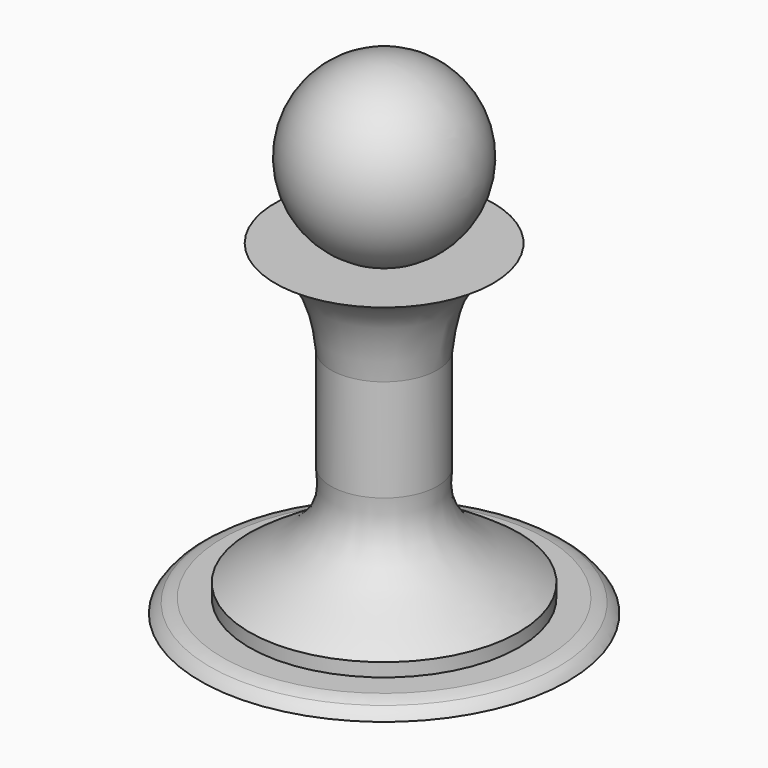
from build123d import *


with BuildPart() as f1:
    # F0 (on Front) → F1 (revolve)
    with BuildSketch(Plane.XZ):
        with BuildLine():
            Line((0, 37.7016658888), (0, 24.9600920844))
            Line((0, 24.9600920844), (0, 0))
            Line((0, 0), (0, -15))
            Line((0, -15), (0, -33.9457252348))
            Line((0, -33.9457252348), (26.9568994511, -33.9457252348))
            add(Edge.make_bspline(
                [(25.5533556485, -32.5448140133), (25.8030567369, -32.697443695), (26.3318932897, -33.0206948082), (26.7409744173, -33.6261488234), (26.9568994511, -33.9457252348)],
                knots=[0, 0, 0, 0, 0.4721706302, 1, 1, 1, 1], degree=3))
            add(Edge.make_bspline(
                [(23.7046416548, -31.948917868), (23.9874091492, -31.9863649584), (24.7836282657, -32.1595058868), (25.3050798474, -32.4200936119), (25.5533556485, -32.5448140133)],
                knots=[0, 0, 0, 0, 0.5244213095, 1, 1, 1, 1], degree=3))
            Line((23.7046416548, -31.948917868), (19.7538680457, -31.948917868))
            Line((19.7538680457, -31.948917868), (19.7538680457, -29.9735310634))
            add(Edge.make_bspline(
                [(7.8118746834, -15), (7.6861322036, -16.2718153789), (7.4156499261, -19.0043366815), (9.826342477, -23.8469146811), (16.0879789652, -27.5223372221), (18.6443573288, -29.1884421261), (19.7538680457, -29.9735310634)],
                knots=[0, 0, 0, 0, 0.2182230248, 0.4694509027, 0.7671610238, 1, 1, 1, 1], degree=3))
            Line((7.8118746834, -15), (7.8118746834, 0))
            add(Edge.make_bspline(
                [(15.974458934, 13.8533746859), (14.5441697293, 13.0412577246), (11.8531197014, 11.5094797561), (9.644820543, 8.3577633696), (8.4500839815, 4.5422093941), (7.9453016268, 1.5586389046), (7.8118746834, 0)],
                knots=[0, 0, 0, 0, 0.2643008349, 0.4977689348, 0.7388403428, 1, 1, 1, 1], degree=3))
            Line((15.974458934, 13.8533746859), (6.2440797276, 13.8533746859))
            ThreePointArc((6.2440797276, 13.8533746859), (12.3260853979, 28.1873698503), (0, 37.7016658888))
        make_face()
    revolve(axis=Axis((0, 0, -24.4728626174), (0, 0, -1)))


solid = f1.part
